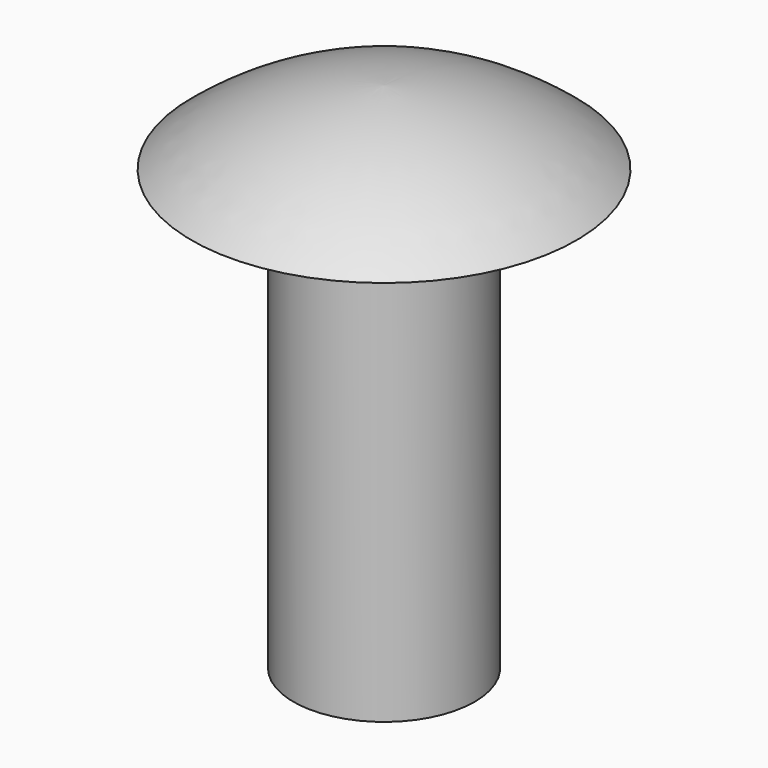
from build123d import *

# Parameters (mm, degrees)
F0_R     = 1.65
F1_DEPTH = 8


with BuildPart() as f1:
    # F0 (on Top) → F1 (new body)
    with BuildSketch(Plane.XY):
        Circle(F0_R)
    extrude(amount=F1_DEPTH)

    # F2 (on Right) → F3 (revolve)
    with BuildSketch(Plane.YZ):
        with BuildLine():
            Line((0, 9.347221), (0, 8))
            Line((0, 8), (3.503942, 8))
            ThreePointArc((3.503942, 8), (1.86331, 8.963188), (0, 9.347221))
        make_face()
    revolve(axis=Axis((0, 0, 8.67361), (0, 0, 1)))


solid = f1.part
